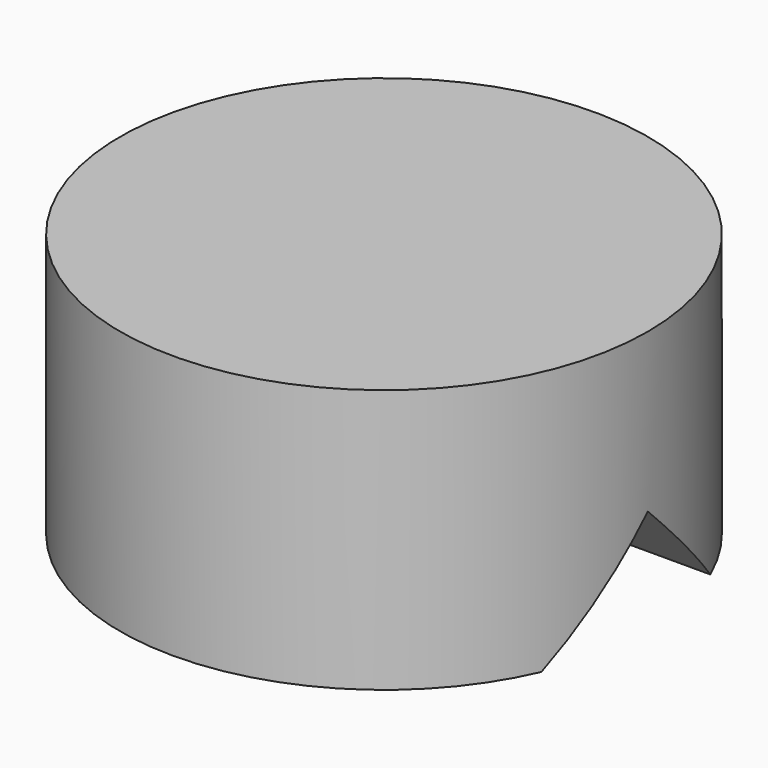
from build123d import *

# Parameters (mm, degrees)
F0_R     = 6.35
F1_DEPTH = 6.35
F4_DEPTH = 12.7


with BuildPart() as f1:
    # F0 (on Top) → F1 (new body)
    with BuildSketch(Plane.XY):
        Circle(F0_R)
    extrude(amount=F1_DEPTH)

    # F3 (on Right) → F4 (cut, symmetric)
    with BuildSketch(Plane.YZ):
        Polygon((0, -2.54), (2.54, 0), (0, 2.54), (-2.54, 0), align=None)
    extrude(amount=F4_DEPTH, both=True, mode=Mode.SUBTRACT)


solid = f1.part
